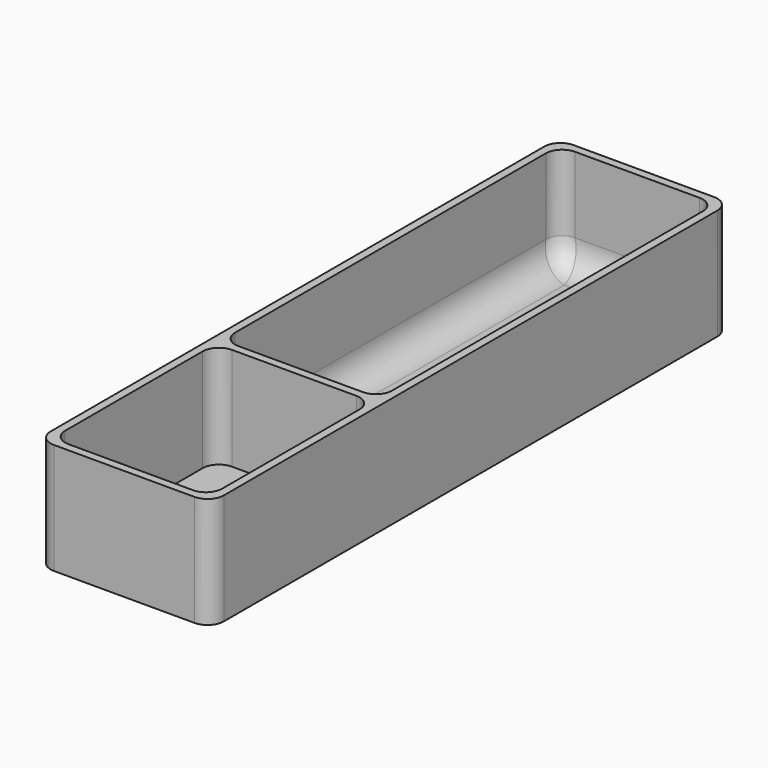
from build123d import *

# Parameters (mm, degrees)
SKETCH012_W    = 32
SKETCH012_H    = 120
PAD005_DEPTH   = 20.5
THICKNESS001_T = -1.5
SKETCH013_W    = 1.5
SKETCH013_H    = 20.5
PAD006_DEPTH   = 29
FILLET007_R    = 3
FILLET008_R    = 5


with BuildPart() as part:
    # Sketch012 → Pad005 (new body)
    with BuildSketch(Plane.XY):
        Rectangle(SKETCH012_W, SKETCH012_H)
    extrude(amount=PAD005_DEPTH)

    # Thickness001
    thickness001_openings = [part.faces().sort_by_distance(p)[0] for p in [
        (0, 0, 20.5),
    ]]
    offset(amount=THICKNESS001_T, openings=thickness001_openings)

    # Sketch013 (on DatumPlane) → Pad006 (join)
    with BuildSketch(Plane(origin=(-14.5, -20, 0), x_dir=(0, 1, 0), z_dir=(1, 0, 0))):
        with Locations((0, 10.25)):
            Rectangle(SKETCH013_W, SKETCH013_H)
    extrude(amount=PAD006_DEPTH)

    # Fillet007
    fillet007_edges = [part.edges().sort_by_distance(p)[0] for p in [
        (-14.5, 58.5, 11),
        (14.5, 58.5, 11),
        (16, 60, 10.25),
        (-16, 60, 10.25),
        (-14.5, -58.5, 11),
        (-16, -60, 10.25),
        (-14.5, -20.75, 11),
        (-14.5, -19.25, 11),
        (14.5, -19.25, 11),
        (14.5, -20.75, 11),
        (14.5, -58.5, 11),
        (16, -60, 10.25),
    ]]
    fillet(fillet007_edges, radius=FILLET007_R)

    # Fillet008
    fillet008_edges = [part.edges().sort_by_distance(p)[0] for p in [
        (0, 58.5, 1.5),
        (-13.62132, 57.62132, 1.5),
        (13.62132, 57.62132, 1.5),
        (-14.5, 19.625, 1.5),
        (14.5, 19.625, 1.5),
        (-13.62132, -18.37132, 1.5),
        (13.62132, -18.37132, 1.5),
        (0, -19.25, 1.5),
    ]]
    fillet(fillet008_edges, radius=FILLET008_R)


with BuildPart() as part_1:
    # Body004 placement: moved
    add(part.part.moved(Location((-22, 83, 14))))


with BuildPart() as part_2:
    # Body007 placement: moved
    add(part_1.part.moved(Location((96, 0, 0))))


solid = part_2.part
